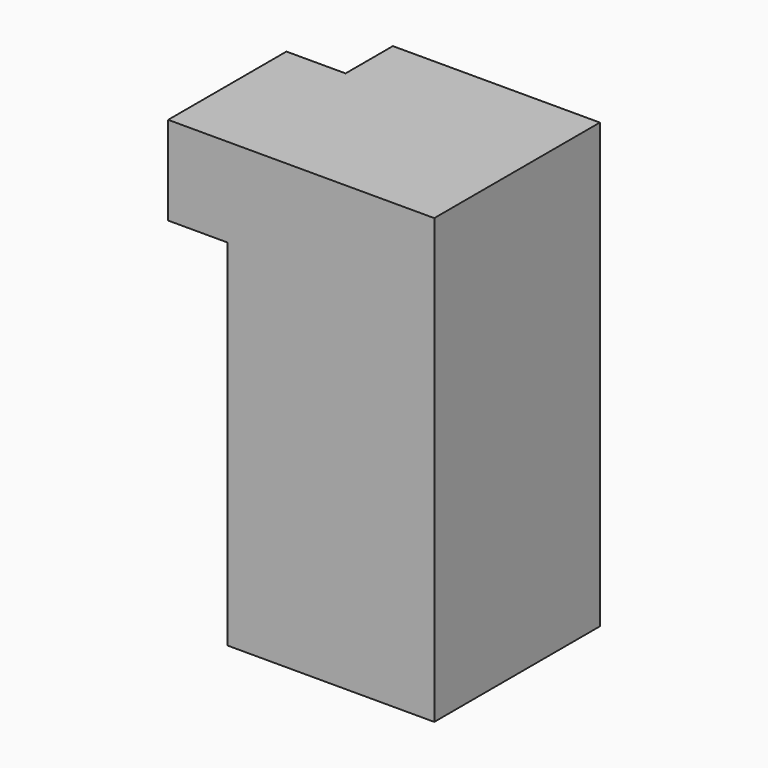
from build123d import *

# Parameters (mm, degrees)
SKETCH_W     = 7
SKETCH_H     = 7
PAD_DEPTH    = 15
SKETCH002_W  = 5
SKETCH002_H  = 3
PAD001_DEPTH = 2


with BuildPart() as part:
    # Sketch → Pad (new body)
    with BuildSketch(Plane.XY):
        with Locations((3.5, -3.5)):
            Rectangle(SKETCH_W, SKETCH_H)
    extrude(amount=PAD_DEPTH)

    # Sketch002 (on Face4 of Pad) → Pad001 (join)
    with BuildSketch(Plane(origin=(0, 0, 0), x_dir=(0, -1, 0), z_dir=(-1, 0, 0))):
        with Locations((4.5, 13.5)):
            Rectangle(SKETCH002_W, SKETCH002_H)
    extrude(amount=PAD001_DEPTH)


solid = part.part
